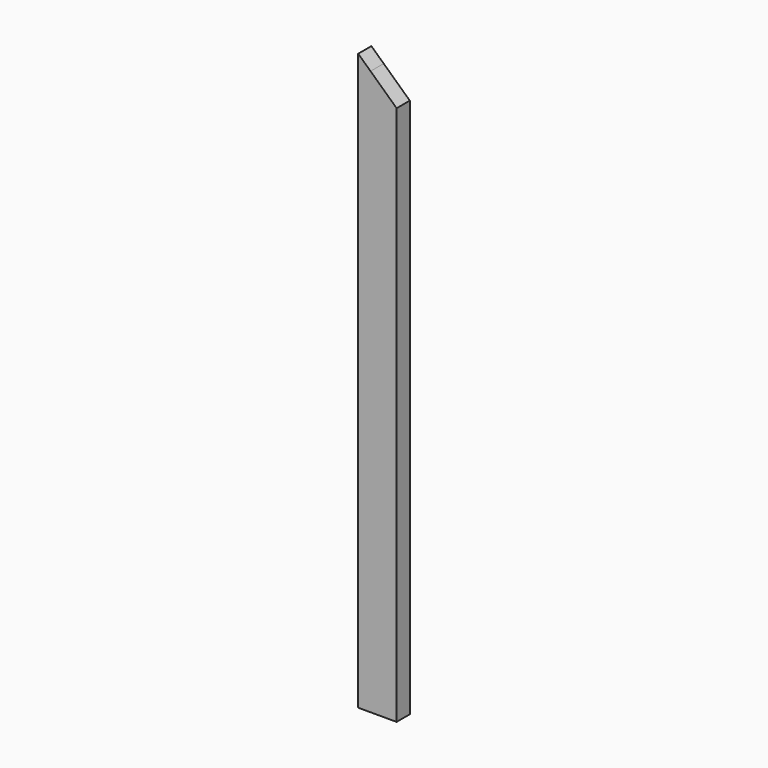
from build123d import *

# Parameters (mm, degrees)
F0_W     = 88.9
F0_H     = 38.1
F1_DEPTH = 1371.6
F3_DEPTH = 38.101


with BuildPart() as f1:
    # F0 (on Top) → F1 (new body)
    with BuildSketch(Plane.XY):
        with Locations((44.45, 19.05)):
            Rectangle(F0_W, F0_H)
    extrude(amount=F1_DEPTH)

    # F2 (on face) → F3 (cut, through all)
    with BuildSketch(Plane.XZ):
        Polygon((28.53436, 1306.33978), (88.9, 1371.6), (0, 1371.6), (0, 1332.734131), align=None)
        Polygon((88.9, 1250.501419), (88.9, 1371.6), (28.53436, 1306.33978), align=None)
    extrude(amount=-F3_DEPTH, mode=Mode.SUBTRACT)


solid = f1.part
